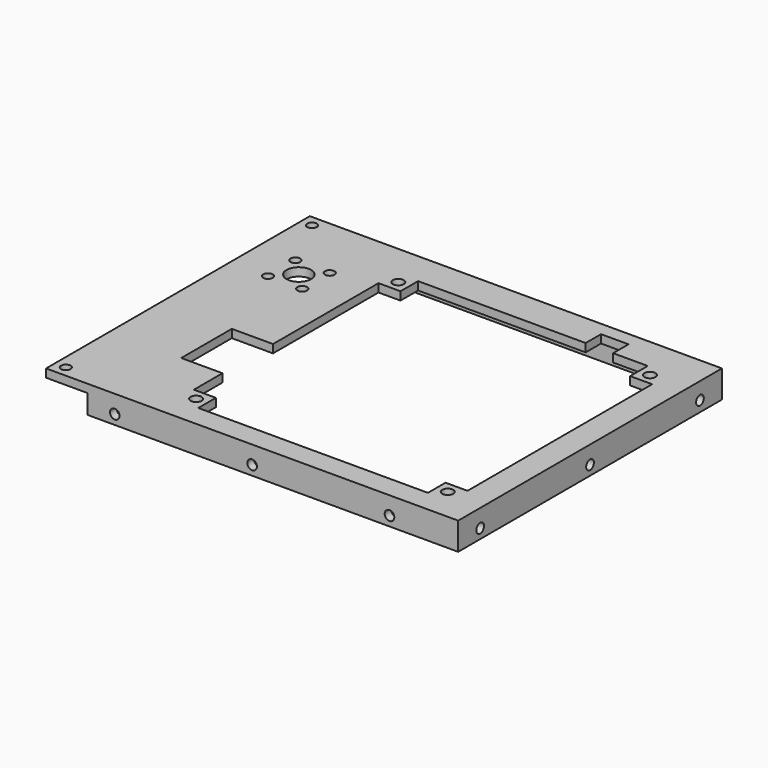
from build123d import *

# Parameters (mm, degrees)
SKETCH_W        = 150
SKETCH_H        = 120
SKETCH_R        = 4.5
SKETCH_R_2      = 1.75
SKETCH_R_3      = 2
PAD_DEPTH       = 3
PAD001_DEPTH    = 7
SKETCH003_R     = 1.75
POCKET_DEPTH    = 5
SKETCH002_R     = 1.75
POCKET001_DEPTH = 5
SKETCH004_R     = 1.75
POCKET002_DEPTH = 5


with BuildPart() as part:
    # Sketch → Pad (new body)
    with BuildSketch(Plane.XY):
        with Locations((75, 60)):
            Rectangle(SKETCH_W, SKETCH_H)
        with Locations((20, 90)):
            Circle(SKETCH_R, mode=Mode.SUBTRACT)
        with Locations((13.75, 96.25)):
            Circle(SKETCH_R_2, mode=Mode.SUBTRACT)
        with Locations((26.25, 96.25)):
            Circle(SKETCH_R_2, mode=Mode.SUBTRACT)
        with Locations((13.75, 83.75)):
            Circle(SKETCH_R_2, mode=Mode.SUBTRACT)
        with Locations((26.25, 83.75)):
            Circle(SKETCH_R_2, mode=Mode.SUBTRACT)
        with Locations((4, 116)):
            Circle(SKETCH_R_2, mode=Mode.SUBTRACT)
        with Locations((4, 4)):
            Circle(SKETCH_R_2, mode=Mode.SUBTRACT)
        with Locations((45, 104)):
            Circle(SKETCH_R_3, mode=Mode.SUBTRACT)
        with Locations((136.6, 104)):
            Circle(SKETCH_R_3, mode=Mode.SUBTRACT)
        with Locations((45, 12)):
            Circle(SKETCH_R_3, mode=Mode.SUBTRACT)
        with Locations((136.6, 12)):
            Circle(SKETCH_R_3, mode=Mode.SUBTRACT)
        Polygon((49, 108), (110, 108), (110, 115), (120, 115), (120, 108), (132.6, 108), (132.6, 100), (140.6, 100), (140.6, 16), (132.6, 16), (132.6, 8), (49, 8), (49, 16), (41, 16), (41, 29), (26, 29), (26, 52), (41, 52), (41, 100), (49, 100), align=None, mode=Mode.SUBTRACT)
    extrude(amount=-PAD_DEPTH)

    # Sketch001 (on DatumPlane) → Pad001 (join)
    with BuildSketch(Plane.XY.offset(-3)):
        Polygon((15, 117), (15, 120), (150, 120), (150, 0), (15, 0), (15, 3), (147, 3), (147, 117), align=None)
    extrude(amount=-PAD001_DEPTH)

    # Sketch003 (on DatumPlane) → Pocket (cut)
    with BuildSketch(Plane.XZ.offset(-120)):
        with Locations((25, -6.5)):
            Circle(SKETCH003_R)
        with Locations((75, -6.5)):
            Circle(SKETCH003_R)
        with Locations((125, -6.5)):
            Circle(SKETCH003_R)
    extrude(amount=POCKET_DEPTH, mode=Mode.SUBTRACT)

    # Sketch002 → Pocket001 (cut)
    with BuildSketch(Plane.XZ):
        with Locations((25, -6.5)):
            Circle(SKETCH002_R)
        with Locations((75, -6.5)):
            Circle(SKETCH002_R)
        with Locations((125, -6.5)):
            Circle(SKETCH002_R)
    extrude(amount=-POCKET001_DEPTH, mode=Mode.SUBTRACT)

    # Sketch004 (on DatumPlane) → Pocket002 (cut, symmetric)
    with BuildSketch(Plane.YZ.offset(150)):
        with Locations((10, -6.5)):
            Circle(SKETCH004_R)
        with Locations((110, -6.156497)):
            Circle(SKETCH004_R)
        with Locations((60, -6.5)):
            Circle(SKETCH004_R)
    extrude(amount=POCKET002_DEPTH, both=True, mode=Mode.SUBTRACT)


solid = part.part
